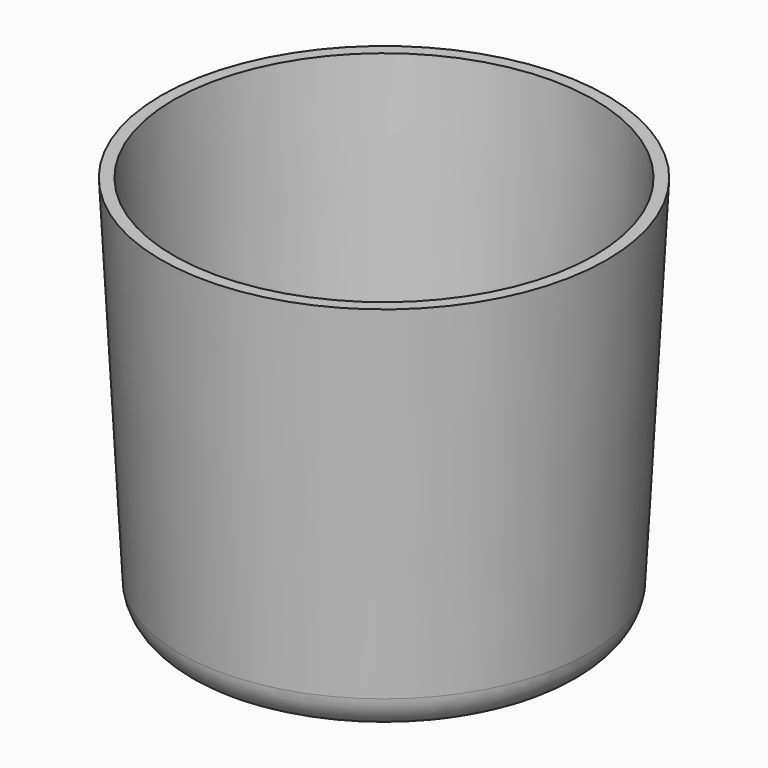
from build123d import *

# Parameters (mm, degrees)
F0_R     = 43.2404063775
F1_DEPTH = 77
F1_TAPER = 3
F2_R     = 5
F3_T     = 2.5


with BuildPart() as f1:
    # F0 (on Top) → F1 (new body)
    with BuildSketch(Plane.XY):
        Circle(F0_R)
    extrude(amount=-F1_DEPTH, taper=F1_TAPER)

    # F2
    f2_edges = [f1.edges().sort_by_distance(p)[0] for p in [
        (-39.205007, 0, -77),
    ]]
    fillet(f2_edges, radius=F2_R)

    # F3
    f3_openings = [f1.faces().sort_by_distance(p)[0] for p in [
        (0, 0, 0),
    ]]
    offset(amount=F3_T, openings=f3_openings, kind=Kind.INTERSECTION)


solid = f1.part
